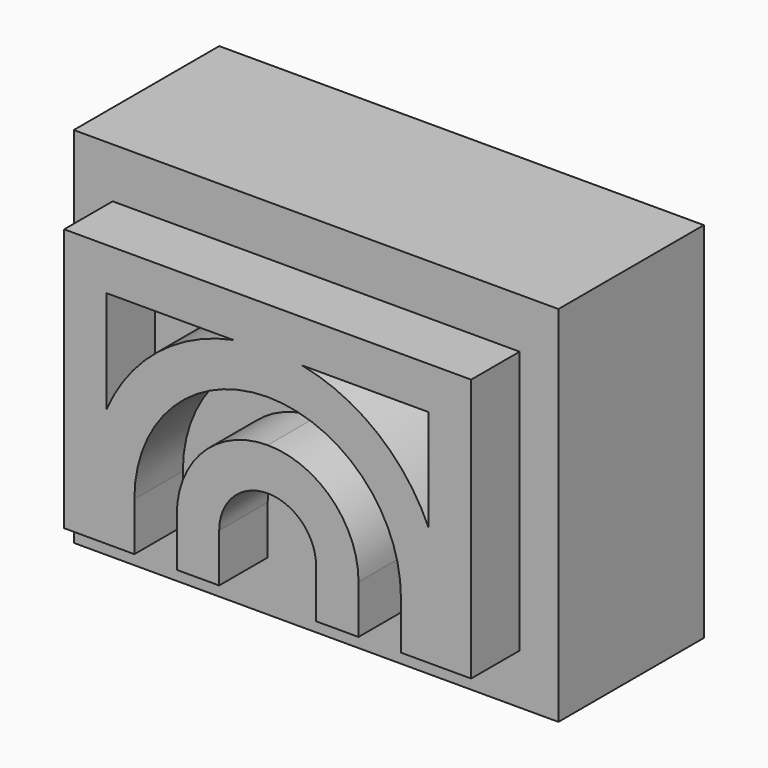
from build123d import *

# Parameters (mm, degrees)
F0_W     = 25.4
F0_H     = 19.05
F1_DEPTH = 9.525
F3_DEPTH = 3.175
F5_D     = 6.5786
F5_DEPTH = 6.35
F5_TIP   = 1.9764108342


with BuildPart() as f1:
    # F0 (on Front) → F1 (new body)
    with BuildSketch(Plane.XZ):
        Rectangle(F0_W, F0_H)
    extrude(amount=-F1_DEPTH)

    # F2 (on face) → F3 (join)
    with BuildSketch(Plane.XZ):
        with BuildLine():
            Line((10.6646052337, 6.8961), (0, 6.8961))
            Line((0, 6.8961), (-10.6646052337, 6.8961))
            Line((-10.6646052337, 6.8961), (-10.6646052337, -6.8961))
            Line((-10.6646052337, -6.8961), (-6.985, -6.8961))
            Line((-6.985, -6.8961), (-6.985, -4.3561))
            ThreePointArc((-6.985, -4.3561), (-4.9391408666, 0.5830408666), (0, 2.6289))
            ThreePointArc((0, 2.6289), (4.9391408666, 0.5830408666), (6.985, -4.3561))
            Line((6.985, -4.3561), (6.985, -6.8961))
            Line((6.985, -6.8961), (10.6646052337, -6.8961))
            Line((10.6646052337, -6.8961), (10.6646052337, 6.8961))
        make_face()
        with BuildLine():
            ThreePointArc((-1.8007149025, 4.6736), (-5.7789138794, 2.8120385746), (-8.4421052337, -0.6806523438))
            Line((-8.4421052337, -0.6806523438), (-8.4421052337, 4.6736))
            Line((-8.4421052337, 4.6736), (-1.8007149025, 4.6736))
        make_face(mode=Mode.SUBTRACT)
        with BuildLine():
            ThreePointArc((8.4421052337, -0.6806523438), (5.7789138794, 2.8120385746), (1.8007149025, 4.6736))
            Line((1.8007149025, 4.6736), (8.4421052337, 4.6736))
            Line((8.4421052337, 4.6736), (8.4421052337, -0.6806523438))
        make_face(mode=Mode.SUBTRACT)
        with BuildLine():
            Line((2.54, -4.3561), (2.54, -6.8961))
            Line((2.54, -6.8961), (4.7625, -6.8961))
            Line((4.7625, -6.8961), (4.7625, -4.3561))
            ThreePointArc((4.7625, -4.3561), (3.3675960454, -0.9885039546), (0, 0.4064))
            ThreePointArc((0, 0.4064), (-3.3675960454, -0.9885039546), (-4.7625, -4.3561))
            Line((-4.7625, -4.3561), (-4.7625, -6.8961))
            Line((-4.7625, -6.8961), (-2.54, -6.8961))
            Line((-2.54, -6.8961), (-2.54, -4.3561))
            ThreePointArc((-2.54, -4.3561), (-1.7960512242, -2.5600487758), (0, -1.8161))
            ThreePointArc((0, -1.8161), (1.7960512242, -2.5600487758), (2.54, -4.3561))
        make_face()
    extrude(amount=F3_DEPTH)

    # F5
    with Locations(Plane(origin=(0, 9.525, 0), x_dir=(-1, 0, 0), z_dir=(0, 1, 0))):
        with Locations((0, 0)):
            Hole(F5_D / 2, depth=F5_DEPTH)
            with Locations((0, 0, -(F5_DEPTH + F5_TIP / 2))):  # 118° drill point
                Cone(0, F5_D / 2, F5_TIP, mode=Mode.SUBTRACT)


solid = f1.part
